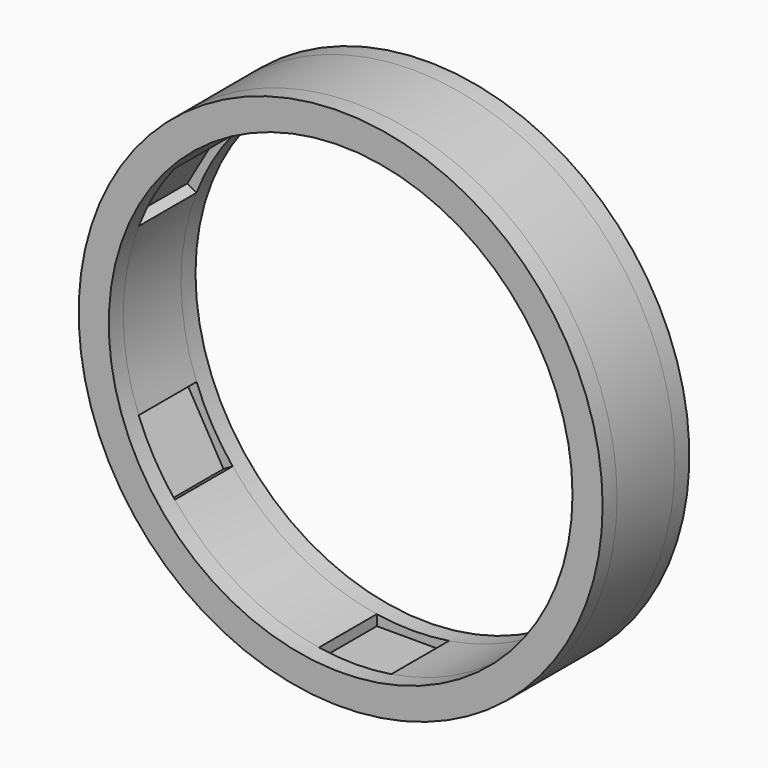
from build123d import *

# Parameters (mm, degrees)
F0_R     = 43.5
F1_DEPTH = 6
F2_R     = 43.5
F2_R_2   = 38.5
F3_DEPTH = 3
F4_R     = 43.5
F4_R_2   = 38.5
F5_DEPTH = 3


with BuildPart() as f1:
    # F0 (on Front) → F1 (new body, symmetric)
    with BuildSketch(Plane.XZ):
        Circle(F0_R)
        with BuildLine():
            Line((-6, 38.029594), (-6, 39.784067))
            Line((-6, 39.784067), (6, 39.784067))
            Line((6, 39.784067), (6, 38.029594))
            ThreePointArc((6, 38.029594), (19.25, 33.341978), (29.934594, 24.210949))
            Line((29.934594, 24.210949), (31.454013, 25.088186))
            Line((31.454013, 25.088186), (37.454013, 14.695881))
            Line((37.454013, 14.695881), (35.934594, 13.818644))
            ThreePointArc((35.934594, 13.818644), (37.853216, 7.027379), (38.5, 0))
            ThreePointArc((38.5, 0), (37.853216, -7.027379), (35.934594, -13.818644))
            Line((35.934594, -13.818644), (37.454013, -14.695881))
            Line((37.454013, -14.695881), (31.454013, -25.088186))
            Line((31.454013, -25.088186), (29.934594, -24.210949))
            ThreePointArc((29.934594, -24.210949), (19.25, -33.341978), (6, -38.029594))
            Line((6, -38.029594), (6, -39.784067))
            Line((6, -39.784067), (-6, -39.784067))
            Line((-6, -39.784067), (-6, -38.029594))
            ThreePointArc((-6, -38.029594), (-19.25, -33.341978), (-29.934594, -24.210949))
            Line((-29.934594, -24.210949), (-31.454013, -25.088186))
            Line((-31.454013, -25.088186), (-37.454013, -14.695881))
            Line((-37.454013, -14.695881), (-35.934594, -13.818644))
            ThreePointArc((-35.934594, -13.818644), (-38.5, 0), (-35.934594, 13.818644))
            Line((-35.934594, 13.818644), (-37.454013, 14.695881))
            Line((-37.454013, 14.695881), (-31.454013, 25.088186))
            Line((-31.454013, 25.088186), (-29.934594, 24.210949))
            ThreePointArc((-29.934594, 24.210949), (-19.25, 33.341978), (-6, 38.029594))
        make_face(mode=Mode.SUBTRACT)
    extrude(amount=F1_DEPTH, both=True)

    # F2 (on face) → F3 (join)
    with BuildSketch(Plane(origin=(0, 6, 0), x_dir=(-1, 0, 0), z_dir=(0, 1, 0))):
        Circle(F2_R)
        Circle(F2_R_2, mode=Mode.SUBTRACT)
    extrude(amount=F3_DEPTH)

    # F4 (on face) → F5 (join)
    with BuildSketch(Plane.XZ.offset(6)):
        Circle(F4_R)
        Circle(F4_R_2, mode=Mode.SUBTRACT)
    extrude(amount=F5_DEPTH)


solid = f1.part
